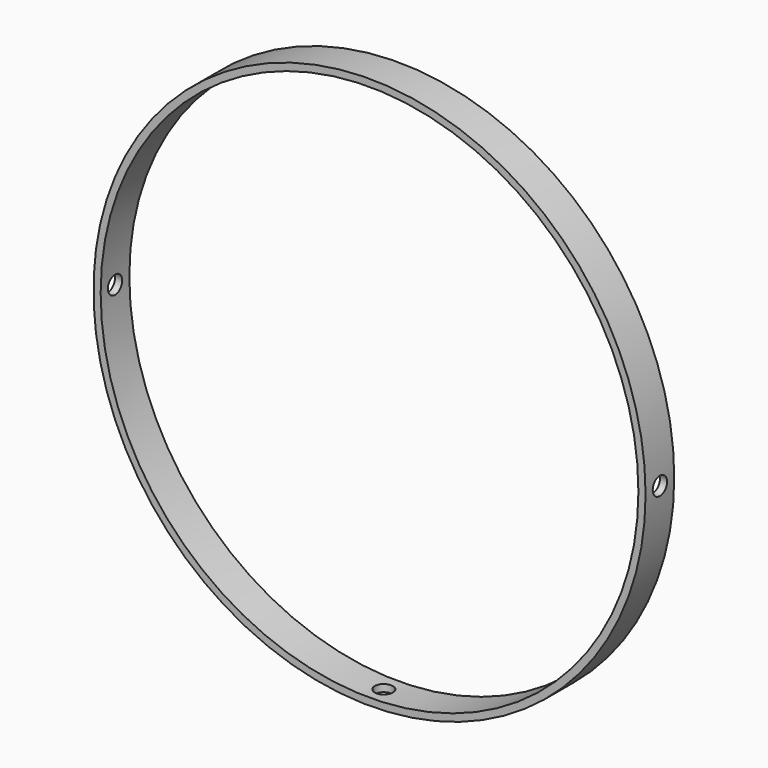
from build123d import *

# Parameters (mm, degrees)
F0_R          = 48.895
F0_R_2        = 47.625
F1_DEPTH      = 3.175
F2_R          = 1.5875
F3_DEPTH      = 48.896
F3_DEPTH_BACK = 88.97111
F4_R          = 1.5875
F5_DEPTH      = 48.8960001


with BuildPart() as f1:
    # F0 (on Front) → F1 (new body, symmetric)
    with BuildSketch(Plane.XZ):
        Circle(F0_R)
        Circle(F0_R_2, mode=Mode.SUBTRACT)
    extrude(amount=F1_DEPTH, both=True)

    # F2 (on Right) → F3 (cut, two sides)
    with BuildSketch(Plane.YZ) as f3_sk:
        Circle(F2_R)
    extrude(amount=-F3_DEPTH, mode=Mode.SUBTRACT)
    extrude(f3_sk.sketch, amount=F3_DEPTH_BACK, mode=Mode.SUBTRACT)

    # F4 (on Top) → F5 (cut, through all)
    with BuildSketch(Plane.XY):
        Circle(F4_R)
    extrude(amount=-F5_DEPTH, mode=Mode.SUBTRACT)


solid = f1.part
